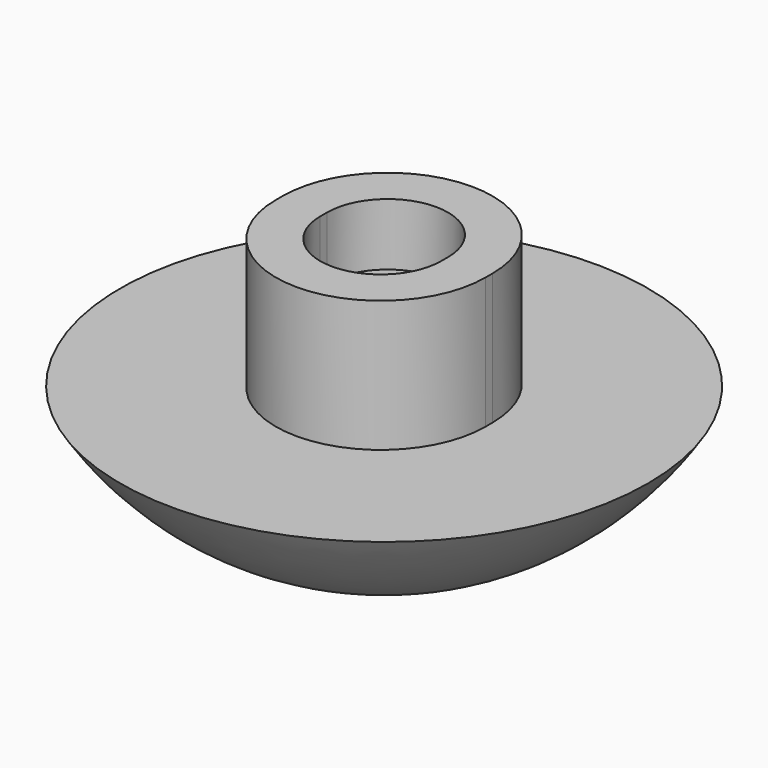
from build123d import *

# Parameters (mm, degrees)
F3_DEPTH = 5.82
F5_DEPTH = 7.75
F6_DEPTH = 5


with BuildPart() as f1:
    # F0 (on Front) → F1 (revolve)
    with BuildSketch(Plane.XZ):
        with BuildLine():
            Line((0, 6.4), (0, 0))
            ThreePointArc((0, 0), (6.668021, 1.704556), (11.7, 6.4))
            Line((11.7, 6.4), (0, 6.4))
        make_face()
    revolve(axis=Axis((0, 0, 3.2), (0, 0, 1)))

    # F2 (on face) → F3 (join)
    with BuildSketch(Plane.XY.offset(6.4)):
        with BuildLine():
            Line((4.65, -0.19), (4.65, 0.19))
            ThreePointArc((4.65, 0.19), (0, 4.84), (-4.65, 0.19))
            Line((-4.65, 0.19), (-4.65, -0.19))
            ThreePointArc((-4.65, -0.19), (0, -4.84), (4.65, -0.19))
        make_face()
        with BuildLine():
            Line((-2.68, -0.19), (-2.68, 0.19))
            ThreePointArc((-2.68, 0.19), (0, 2.87), (2.68, 0.19))
            Line((2.68, 0.19), (2.68, -0.19))
            ThreePointArc((2.68, -0.19), (0, -2.87), (-2.68, -0.19))
        make_face(mode=Mode.SUBTRACT)
    extrude(amount=F3_DEPTH)

    # F4 (on face) → F5 (cut)
    with BuildSketch(Plane.XY.offset(12.22)):
        with BuildLine():
            ThreePointArc((2.68, 0.19), (0, 2.87), (-2.68, 0.19))
            Line((-2.68, 0.19), (-2.68, -0.19))
            ThreePointArc((-2.68, -0.19), (0, -2.87), (2.68, -0.19))
            Line((2.68, -0.19), (2.68, 0.19))
        make_face()
    extrude(amount=-F5_DEPTH, mode=Mode.SUBTRACT)

    # F5_face (on face) → F6 (join)
    with BuildSketch(Plane.XY.offset(4.47)):
        with BuildLine():
            ThreePointArc((2.68, 0.19), (0, 2.87), (-2.68, 0.19))
            Line((-2.68, 0.19), (-2.68, -0.19))
            ThreePointArc((-2.68, -0.19), (0, -2.87), (2.68, -0.19))
            Line((2.68, -0.19), (2.68, 0.19))
        make_face()
    extrude(amount=F6_DEPTH)


solid = f1.part
